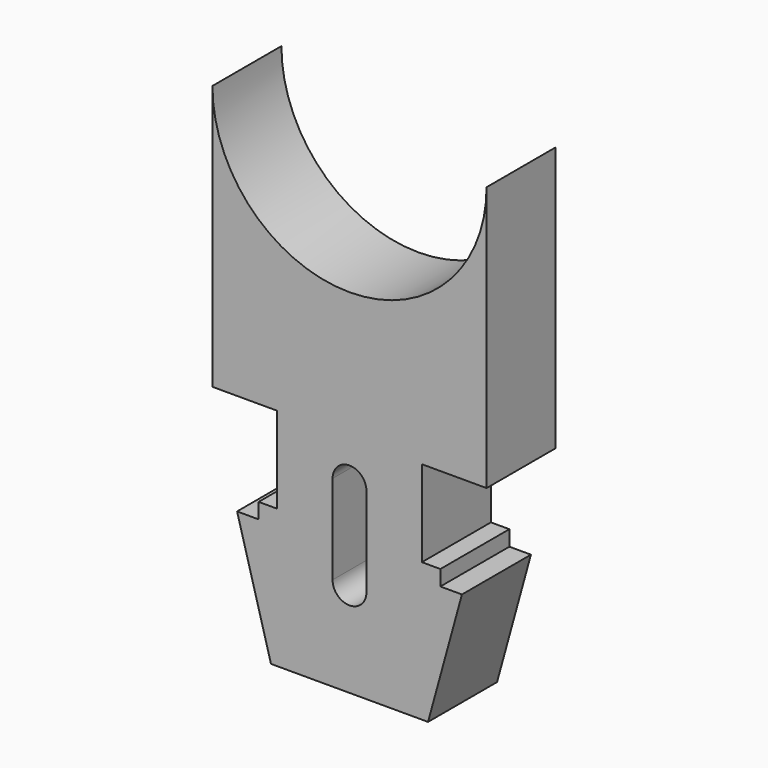
from build123d import *

# Parameters (mm, degrees)
F1_DEPTH = 2.8


with BuildPart() as f1:
    # F0 (on Front) → F1 (new body)
    with BuildSketch(Plane.XZ):
        with BuildLine():
            ThreePointArc((4.45, 11.4), (0, 6.95), (-4.45, 11.4))
            Line((-4.45, 11.4), (-4.45, 2.8))
            Line((-4.45, 2.8), (-2.35, 2.8))
            Line((-2.35, 2.8), (-2.35, 0))
            Line((-2.35, 0), (-2.95, 0))
            Line((-2.95, 0), (-2.95, -0.5))
            Line((-2.95, -0.5), (-3.65, -0.5))
            Line((-3.65, -0.5), (-2.55, -4.5))
            Line((-2.55, -4.5), (2.55, -4.5))
            Line((2.55, -4.5), (3.65, -0.5))
            Line((3.65, -0.5), (2.95, -0.5))
            Line((2.95, -0.5), (2.95, 0))
            Line((2.95, 0), (2.35, 0))
            Line((2.35, 0), (2.35, 2.8))
            Line((2.35, 2.8), (4.45, 2.8))
            Line((4.45, 2.8), (4.45, 11.4))
        make_face()
        with BuildLine():
            ThreePointArc((-0.55, 1.45), (0, 2), (0.55, 1.45))
            Line((0.55, 1.45), (0.55, -1.45))
            ThreePointArc((0.55, -1.45), (0, -2), (-0.55, -1.45))
            Line((-0.55, -1.45), (-0.55, 1.45))
        make_face(mode=Mode.SUBTRACT)
    extrude(amount=F1_DEPTH)


solid = f1.part
